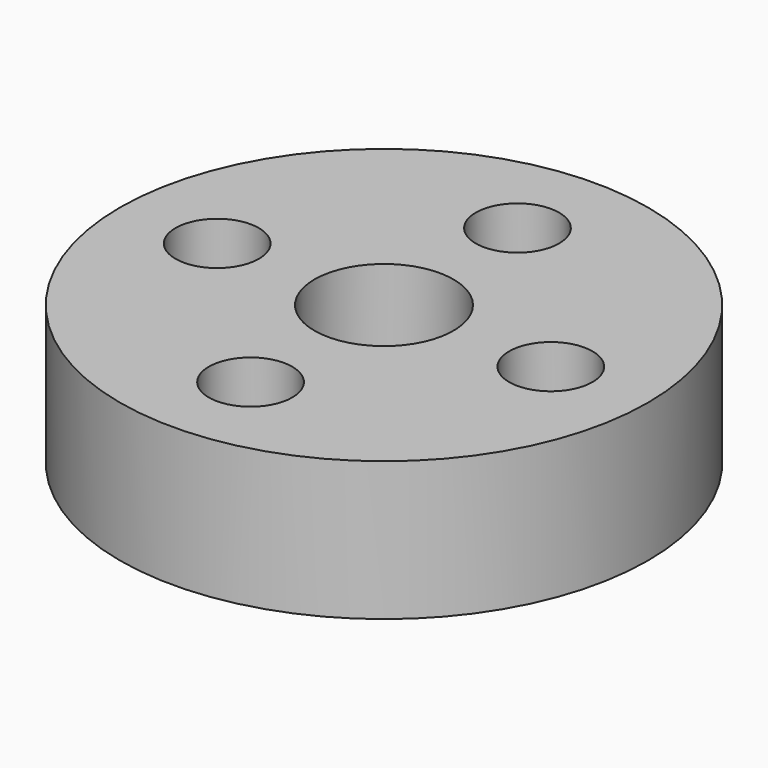
from build123d import *

# Parameters (mm, degrees)
F0_R     = 1.5
F1_DEPTH = 5


with BuildPart() as f1:
    # F0 (on Top) → F1 (new body)
    with BuildSketch(Plane.XY):
        with BuildLine():
            ThreePointArc((-9.5, 0), (0, -9.5), (9.5, 0))
            ThreePointArc((9.5, 0), (0, 9.5), (-9.5, 0))
        make_face()
        with Locations((0, -6)):
            Circle(F0_R, mode=Mode.SUBTRACT)
        with BuildLine():
            ThreePointArc((-4.5, 0), (-6, -1.5), (-7.5, 0))
            ThreePointArc((-7.5, 0), (-6, 1.5), (-4.5, 0))
        make_face(mode=Mode.SUBTRACT)
        with BuildLine():
            ThreePointArc((2.5, 0), (0, -2.5), (-2.5, 0))
            ThreePointArc((-2.5, 0), (0, 2.5), (2.5, 0))
        make_face(mode=Mode.SUBTRACT)
        with Locations((6, 0)):
            Circle(F0_R, mode=Mode.SUBTRACT)
        with Locations((0, 6)):
            Circle(F0_R, mode=Mode.SUBTRACT)
    extrude(amount=-F1_DEPTH)


solid = f1.part
